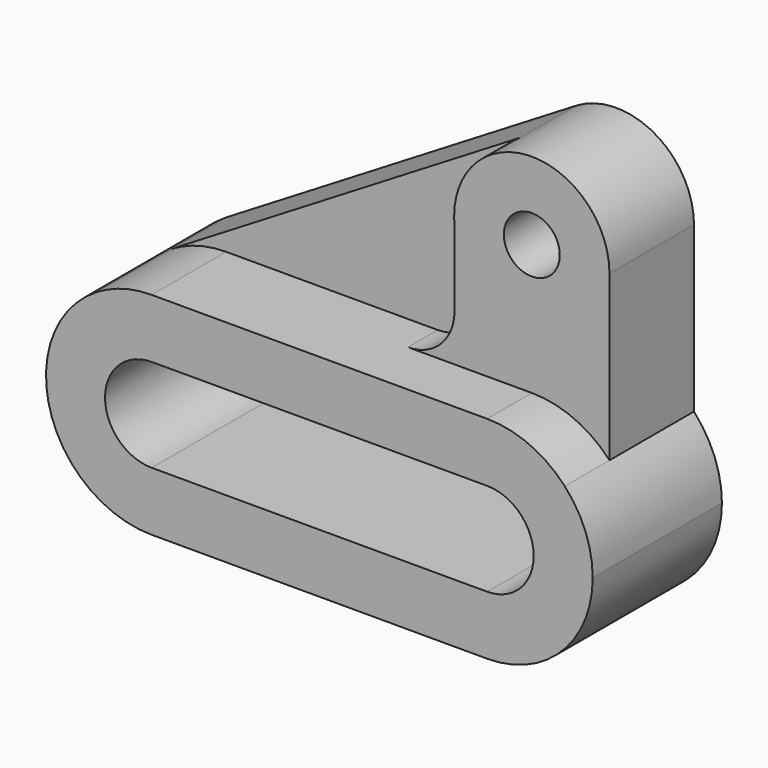
from build123d import *

# Parameters (mm, degrees)
F1_DEPTH = 52
F2_DEPTH = 34
F3_DEPTH = 22


with BuildPart() as f1:
    # F0 (on Front) → F1 (new body)
    with BuildSketch(Plane.XZ):
        with BuildLine():
            ThreePointArc((3.1745948681, -38.3936265707), (15.7146867173, -24.5318871914), (33.6868874729, -19.3936265707))
            Line((33.6868874729, -19.3936265707), (-6.2102505072, -19.3936265707))
            Line((-6.2102505072, -19.3936265707), (-74.3131125271, -19.3936265707))
            ThreePointArc((-74.3131125271, -19.3936265707), (-56.3409117715, -24.5318871914), (-43.8008199223, -38.3936265707))
            Line((-43.8008199223, -38.3936265707), (3.1745948681, -38.3936265707))
        make_face()
        with BuildLine():
            ThreePointArc((-43.8008199223, -38.3936265707), (-56.3409117715, -24.5318871914), (-74.3131125271, -19.3936265707))
            Line((-74.3131125271, -19.3936265707), (-74.3131125271, -38.3936265707))
            Line((-74.3131125271, -38.3936265707), (-43.8008199223, -38.3936265707))
        make_face()
        with BuildLine():
            ThreePointArc((-74.3131125271, -19.3936265707), (-83.4639381348, -20.6482087127), (-91.9394424253, -24.3193682943))
            ThreePointArc((-91.9394424253, -24.3193682943), (-107.0585303852, -62.5444521784), (-74.3131125271, -87.3936265707))
            Line((-74.3131125271, -87.3936265707), (-74.3131125271, -68.3936265707))
            ThreePointArc((-74.3131125271, -68.3936265707), (-89.3131125271, -53.3936265707), (-74.3131125271, -38.3936265707))
            Line((-74.3131125271, -38.3936265707), (-74.3131125271, -19.3936265707))
        make_face()
        with BuildLine():
            Line((-74.3131125271, -68.3936265707), (-74.3131125271, -87.3936265707))
            ThreePointArc((-74.3131125271, -87.3936265707), (-56.3409117715, -82.25536595), (-43.8008199223, -68.3936265707))
            Line((-43.8008199223, -68.3936265707), (-74.3131125271, -68.3936265707))
        make_face()
        with BuildLine():
            Line((-74.3131125271, -87.3936265707), (33.6868874729, -87.3936265707))
            ThreePointArc((33.6868874729, -87.3936265707), (15.7146867173, -82.25536595), (3.1745948681, -68.3936265707))
            Line((3.1745948681, -68.3936265707), (-43.8008199223, -68.3936265707))
            ThreePointArc((-43.8008199223, -68.3936265707), (-56.3409117715, -82.25536595), (-74.3131125271, -87.3936265707))
        make_face()
        with BuildLine():
            ThreePointArc((3.1745948681, -68.3936265707), (15.7146867173, -82.25536595), (33.6868874729, -87.3936265707))
            Line((33.6868874729, -87.3936265707), (33.6868874729, -68.3936265707))
            Line((33.6868874729, -68.3936265707), (3.1745948681, -68.3936265707))
        make_face()
        with BuildLine():
            ThreePointArc((67.6868874729, -53.3936265707), (65.3570627171, -41.0243096938), (58.6868874729, -30.3501893271))
            ThreePointArc((58.6868874729, -30.3501893271), (47.3346553072, -22.2530030519), (33.6868874729, -19.3936265707))
            Line((33.6868874729, -19.3936265707), (33.6868874729, -38.3936265707))
            ThreePointArc((33.6868874729, -38.3936265707), (48.6868874729, -53.3936265707), (33.6868874729, -68.3936265707))
            Line((33.6868874729, -68.3936265707), (33.6868874729, -87.3936265707))
            ThreePointArc((33.6868874729, -87.3936265707), (57.7285180332, -77.435257131), (67.6868874729, -53.3936265707))
        make_face()
        with BuildLine():
            Line((33.6868874729, -38.3936265707), (33.6868874729, -19.3936265707))
            ThreePointArc((33.6868874729, -19.3936265707), (15.7146867173, -24.5318871914), (3.1745948681, -38.3936265707))
            Line((3.1745948681, -38.3936265707), (33.6868874729, -38.3936265707))
        make_face()
    extrude(amount=F1_DEPTH)

    # F0 (on Front) → F2 (join)
    with BuildSketch(Plane.XZ):
        with BuildLine():
            Line((58.6868874729, 22.6063734293), (42.6868874729, 22.6063734293))
            ThreePointArc((42.6868874729, 22.6063734293), (33.6868874729, 13.6063734293), (24.6868874729, 22.6063734293))
            Line((24.6868874729, 22.6063734293), (8.6868874729, 22.6063734293))
            ThreePointArc((8.6868874729, 22.6063734293), (8.7126162172, 21.4724531281), (8.7897494928, 20.3408667745))
            ThreePointArc((8.7897494928, 20.3408667745), (34.8208077741, -2.3678978263), (58.6868874729, 22.6063734293))
        make_face()
        with BuildLine():
            ThreePointArc((24.6868874729, 22.6063734293), (33.6868874729, 31.6063734293), (42.6868874729, 22.6063734293))
            Line((42.6868874729, 22.6063734293), (58.6868874729, 22.6063734293))
            ThreePointArc((58.6868874729, 22.6063734293), (45.9544581931, 44.389548327), (20.726350783, 43.9845045149))
            ThreePointArc((20.726350783, 43.9845045149), (11.9037125752, 34.8739441496), (8.6868874729, 22.6063734293))
            Line((8.6868874729, 22.6063734293), (24.6868874729, 22.6063734293))
        make_face()
        with BuildLine():
            Line((58.6868874729, -30.3501893271), (58.6868874729, 22.6063734293))
            ThreePointArc((58.6868874729, 22.6063734293), (34.8208077741, -2.3678978263), (8.7897494928, 20.3408667745))
            Line((8.7897494928, 20.3408667745), (8.7897494928, -4.3936265707))
            ThreePointArc((8.7897494928, -4.3936265707), (4.3963512106, -15.0002282885), (-6.2102505072, -19.3936265707))
            Line((-6.2102505072, -19.3936265707), (33.6868874729, -19.3936265707))
            ThreePointArc((33.6868874729, -19.3936265707), (47.3346553072, -22.2530030519), (58.6868874729, -30.3501893271))
        make_face()
    extrude(amount=F2_DEPTH)


with BuildPart() as f3:
    # F0 (on Front) → F3 (new body)
    with BuildSketch(Plane.XZ):
        with BuildLine():
            ThreePointArc((8.7897494928, 20.3408667745), (8.7126162172, 21.4724531281), (8.6868874729, 22.6063734293))
            Line((8.6868874729, 22.6063734293), (-14.5364241814, 22.6063734293))
            Line((-14.5364241814, 22.6063734293), (-91.9394424253, -24.3193682943))
            ThreePointArc((-91.9394424253, -24.3193682943), (-83.4639381348, -20.6482087127), (-74.3131125271, -19.3936265707))
            Line((-74.3131125271, -19.3936265707), (-6.2102505072, -19.3936265707))
            ThreePointArc((-6.2102505072, -19.3936265707), (4.3963512106, -15.0002282885), (8.7897494928, -4.3936265707))
            Line((8.7897494928, -4.3936265707), (8.7897494928, 20.3408667745))
        make_face()
        with BuildLine():
            Line((-14.5364241814, 22.6063734293), (8.6868874729, 22.6063734293))
            ThreePointArc((8.6868874729, 22.6063734293), (11.9037125752, 34.8739441496), (20.726350783, 43.9845045149))
            Line((20.726350783, 43.9845045149), (-14.5364241814, 22.6063734293))
        make_face()
    extrude(amount=F3_DEPTH)


solid = Compound([f1.part, f3.part])
